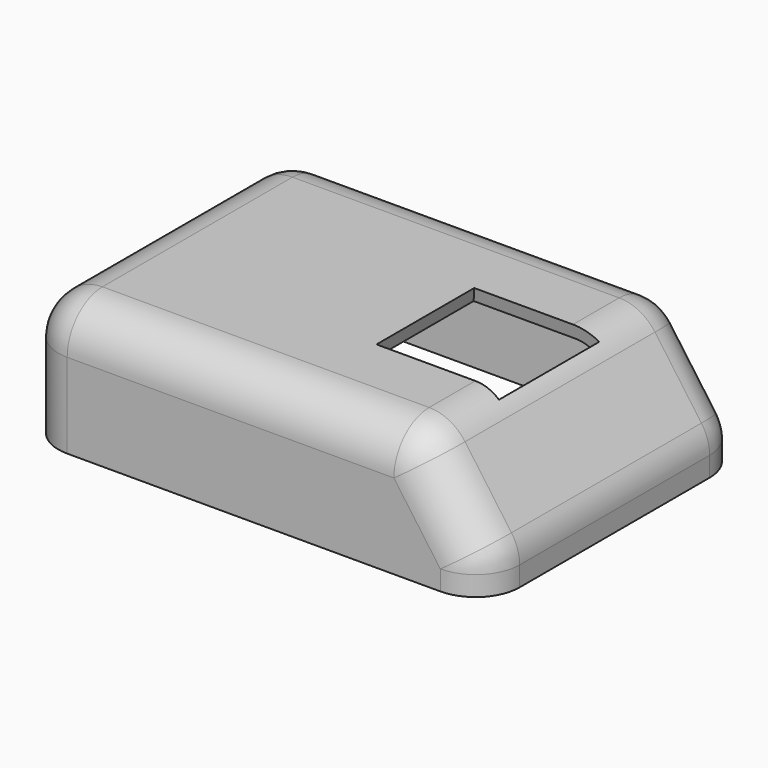
from build123d import *

# Parameters (mm, degrees)
SKETCH002_W     = 68
SKETCH002_H     = 48
PAD002_DEPTH    = 19
CHAMFER_SIZE2   = 10
CHAMFER_SIZE    = 14
FILLET001_R     = 6.5
THICKNESS_T     = -2
SKETCH004_W     = 18
SKETCH004_H     = 18
POCKET_DEPTH    = 5
POCKET_TAPER    = -12
SKETCH005_W     = 9.5
SKETCH005_H     = 16.4
SKETCH005_W_2   = 11
SKETCH005_H_2   = 12
POCKET001_DEPTH = 5


with BuildPart() as part:
    # Sketch002 → Pad002 (new body)
    with BuildSketch(Plane.XY):
        Rectangle(SKETCH002_W, SKETCH002_H)
    extrude(amount=PAD002_DEPTH)

    # Chamfer
    chamfer_edges = [part.edges().sort_by_distance(p)[0] for p in [
        (34, 0, 19),
    ]]
    chamfer_side = part.faces().sort_by_distance((34, 0, 9.5))[0]
    chamfer(chamfer_edges, length=CHAMFER_SIZE, length2=CHAMFER_SIZE2, reference=chamfer_side)

    # Fillet001
    fillet001_edges = [part.edges().sort_by_distance(p)[0] for p in [
        (29, -24, 12),
        (24, 0, 19),
        (-5, -24, 19),
        (-34, 0, 19),
        (-5, 24, 19),
        (29, 24, 12),
        (34, 0, 5),
        (34, 24, 2.5),
        (34, -24, 2.5),
        (-34, 24, 9.5),
        (-34, -24, 9.5),
    ]]
    fillet(fillet001_edges, radius=FILLET001_R)

    # Thickness
    thickness_openings = [part.faces().sort_by_distance(p)[0] for p in [
        (0, 0, 0),
    ]]
    offset(amount=THICKNESS_T, openings=thickness_openings)

    # Sketch004 (on Face14 of Thickness) → Pocket (cut)
    with BuildSketch(Plane.XY.offset(19)):
        with Locations((15.1, 0)):
            Rectangle(SKETCH004_W, SKETCH004_H)
    extrude(amount=-POCKET_DEPTH, taper=POCKET_TAPER, mode=Mode.SUBTRACT)

    # Sketch005 (on Face7 of Pocket) → Pocket001 (cut)
    with BuildSketch(Plane(origin=(-34, 0, 0), x_dir=(0, -1, 0), z_dir=(-1, 0, 0))):
        with Locations((7.25, 8.2)):
            Rectangle(SKETCH005_W, SKETCH005_H)
        with Locations((-7, 6)):
            Rectangle(SKETCH005_W_2, SKETCH005_H_2)
    extrude(amount=-POCKET001_DEPTH, mode=Mode.SUBTRACT)


solid = part.part
